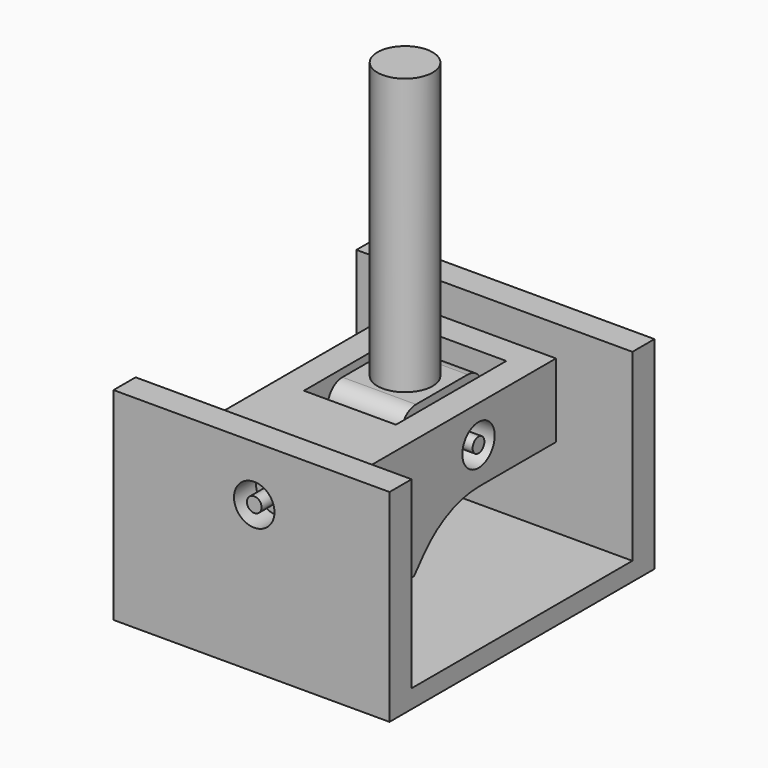
from build123d import *

# Parameters (mm, degrees)
F0_W      = 150
F0_H      = 180
F1_DEPTH  = 10
F2_W      = 150
F2_H      = 15
F3_DEPTH  = 100
F5_D      = 22
F7_DEPTH  = 40
F9_R      = 4
F10_DEPTH = 25
F11_R     = 4
F12_DEPTH = 25
F13_W     = 50
F13_H     = 75
F14_DEPTH = 65.278
F16_R     = 11
F17_DEPTH = 87.122
F19_W     = 40
F19_H     = 60
F20_DEPTH = 45
F22_DEPTH = 42.672
F23_R     = 4
F24_DEPTH = 20
F25_R     = 4
F26_DEPTH = 20
F27_R     = 15
F28_DEPTH = 150


with BuildPart() as f1:
    # F0 (on Top) → F1 (new body)
    with BuildSketch(Plane.XY):
        with Locations((-1.474342, -20.085204)):
            Rectangle(F0_W, F0_H)
    extrude(amount=F1_DEPTH)

    # F2 (on face) → F3 (join)
    with BuildSketch(Plane.XY.offset(10)):
        with Locations((-1.474342, 62.414796)):
            Rectangle(F2_W, F2_H)
        with Locations((-1.474342, -102.585204)):
            Rectangle(F2_W, F2_H)
    extrude(amount=F3_DEPTH)

    # F5 (through all)
    with Locations(Plane(origin=(0, 69.914796, 0), x_dir=(-1, 0, 0), z_dir=(0, 1, 0))):
        with Locations((0, 80)):
            Hole(F5_D / 2)


with BuildPart() as f7:
    # F6 (on Right) → F7 (new body)
    with BuildSketch(Plane.YZ):
        with BuildLine():
            Line((44.914796, 100), (-85.085204, 100))
            Line((-85.085204, 100), (-85.085204, 35))
            Line((-85.085204, 35), (-51.542021, 35))
            Line((-51.542021, 35), (-45.049812, 42.564274))
            ThreePointArc((-45.049812, 42.564274), (-27.986226, 55.432443), (-7.108171, 60))
            Line((-7.108171, 60), (44.914796, 60))
            Line((44.914796, 60), (44.914796, 100))
        make_face()
    extrude(amount=F7_DEPTH)

    # F8: F7 across plane


with BuildPart() as f7_1:
    add(f7.part)
    add(f7.part.mirror(Plane.YZ))

    # F9 (on face) → F10 (join)
    with BuildSketch(Plane.XZ.offset(85.085204)):
        with Locations((0, 80.03625)):
            Circle(F9_R)
    extrude(amount=F10_DEPTH)

    # F11 (on face) → F12 (join)
    with BuildSketch(Plane(origin=(0, 44.914796, 0), x_dir=(-1, 0, 0), z_dir=(0, 1, 0))):
        with Locations((0, 80)):
            Circle(F11_R)
    extrude(amount=F12_DEPTH)

    # F13 (on face) → F14 (cut)
    with BuildSketch(Plane.XY.offset(100)):
        with Locations((0, -7.585204)):
            Rectangle(F13_W, F13_H)
    extrude(amount=-F14_DEPTH, mode=Mode.SUBTRACT)

    # F16 (on face) → F17 (cut)
    with BuildSketch(Plane.YZ.offset(40)):
        with Locations((-7.724516, 80.000485)):
            Circle(F16_R)
    extrude(amount=-F17_DEPTH, mode=Mode.SUBTRACT)


with BuildPart() as f20:
    # F19 (on face) → F20 (new body)
    with BuildSketch(Plane.XY.offset(100)):
        with Locations((0, -7.585204)):
            Rectangle(F19_W, F19_H)
    extrude(amount=-F20_DEPTH)

    # F21 (on face) → F22 (cut)
    with BuildSketch(Plane.YZ.offset(20)):
        with BuildLine():
            Line((19.663312, 87.799952), (16.663805, 74.500173))
            ThreePointArc((16.663805, 74.500173), (7.942819, 60.517717), (-7.585204, 55))
            Line((-7.585204, 55), (22.414796, 55))
            Line((22.414796, 55), (22.414796, 100))
            Line((22.414796, 100), (9.908324, 100))
            ThreePointArc((9.908324, 100), (17.718589, 96.244979), (19.663312, 87.799952))
        make_face()
        with BuildLine():
            ThreePointArc((-7.863828, 55), (-23.49367, 60.600036), (-32.169111, 74.755921))
            Line((-32.169111, 74.755921), (-34.989643, 87.902247))
            ThreePointArc((-34.989643, 87.902247), (-32.989599, 96.285796), (-25.212147, 100))
            Line((-25.212147, 100), (-37.585204, 100))
            Line((-37.585204, 100), (-37.585204, 55))
            Line((-37.585204, 55), (-7.863828, 55))
        make_face()
    extrude(amount=-F22_DEPTH, mode=Mode.SUBTRACT)

    # F23 (on face) → F24 (join)
    with BuildSketch(Plane.YZ.offset(20)):
        with Locations((-7.724516, 80.000485)):
            Circle(F23_R)
    extrude(amount=F24_DEPTH)

    # F25 (on face) → F26 (join)
    with BuildSketch(Plane(origin=(-20, 0, 0), x_dir=(0, -1, 0), z_dir=(-1, 0, 0))):
        with Locations((7.724516, 80.000485)):
            Circle(F25_R)
    extrude(amount=F26_DEPTH)

    # F27 (on face) → F28 (join)
    with BuildSketch(Plane.XY.offset(100)):
        with Locations((0, -7.651911)):
            Circle(F27_R)
    extrude(amount=F28_DEPTH)


solid = Compound([f1.part, f7_1.part, f20.part])
